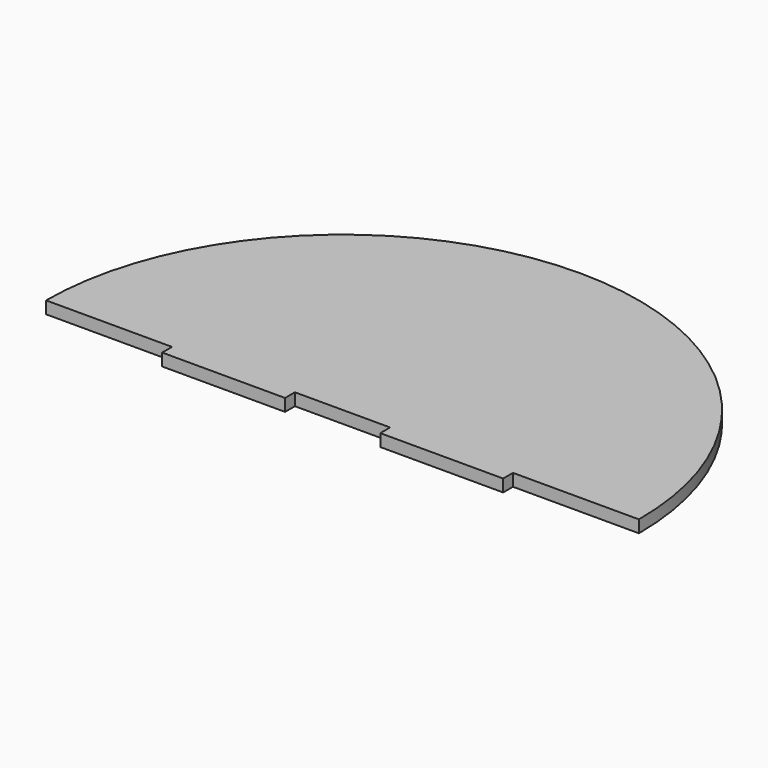
from build123d import *

# Parameters (mm, degrees)
F1_DEPTH = 4
F2_W     = 40
F2_H     = 4
F3_DEPTH = 4


with BuildPart() as f1:
    # F0 (on Top) → F1 (new body)
    with BuildSketch(Plane.XY):
        with BuildLine():
            Line((-96.5, 0), (96.5, 0))
            ThreePointArc((96.5, 0), (0, 96.5), (-96.5, 0))
        make_face()
    extrude(amount=F1_DEPTH)

    # F2 (on Top) → F3 (join)
    with BuildSketch(Plane.XY):
        with Locations((-35.5, -2)):
            Rectangle(F2_W, F2_H)
        with Locations((35.5, -2)):
            Rectangle(F2_W, F2_H)
    extrude(amount=F3_DEPTH)


solid = f1.part
